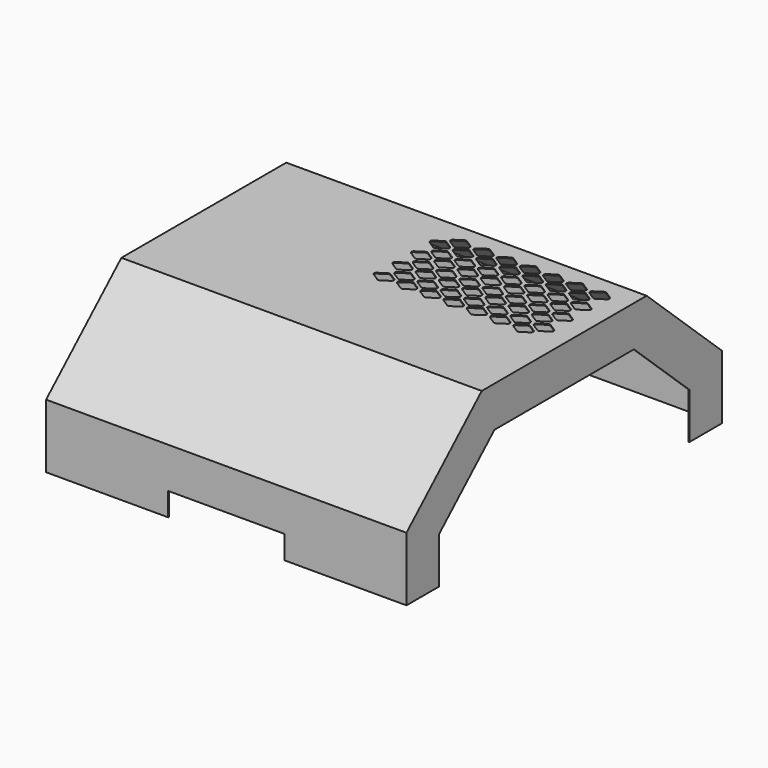
from build123d import *

# Parameters (mm, degrees)
F1_DEPTH = 196.85
F2_T     = -0.9525
F3_W     = 127
F3_H     = 25.4
F4_DEPTH = 25.4
F6_DEPTH = 25.4


with BuildPart() as f1:
    # F0 (on Right) → F1 (new body, symmetric)
    with BuildSketch(Plane.YZ):
        Polygon((112.592913, 164.460092), (0, 164.460092), (-112.592913, 164.460092), (-215.379199, 69.85), (-215.379199, 0), (-170.929199, 0), (-170.929199, 50.350838), (-95.25, 120.010092), (0, 120.010092), (95.25, 120.010092), (170.929199, 50.350838), (170.929199, 0), (215.379199, 0), (215.379199, 69.85), align=None)
    extrude(amount=F1_DEPTH, both=True)

    # F2
    f2_openings = [f1.faces().sort_by_distance(p)[0] for p in [
        (0, 0, 120.010092),
        (0, 133.089599, 85.180465),
        (0, 170.929199, 25.175419),
        (0, 193.154199, 0),
        (0, -133.089599, 85.180465),
        (0, -170.929199, 25.175419),
        (0, -193.154199, 0),
    ]]
    offset(amount=F2_T, openings=f2_openings)

    # F3 (on face) → F4 (cut)
    with BuildSketch(Plane.XZ.offset(215.379199)):
        with Locations((0, 12.7)):
            Rectangle(F3_W, F3_H)
    extrude(amount=-F4_DEPTH, mode=Mode.SUBTRACT)

    # F5 (on face) → F6 (cut)
    with BuildSketch(Plane.XY.offset(164.460092)):
        with BuildLine():
            Line((-1.38427, 7.355224), (-9.42362, 2.129647))
            ThreePointArc((-9.42362, 2.129647), (-10.57935, 0), (-9.42362, -2.129647))
            Line((-9.42362, -2.129647), (-1.38427, -7.355224))
            ThreePointArc((-1.38427, -7.355224), (0, -7.765577), (1.38427, -7.355224))
            Line((1.38427, -7.355224), (9.42362, -2.129647))
            ThreePointArc((9.42362, -2.129647), (10.57935, 0), (9.42362, 2.129647))
            Line((9.42362, 2.129647), (1.38427, 7.355224))
            ThreePointArc((1.38427, 7.355224), (0, 7.765577), (-1.38427, 7.355224))
        make_face()
        with BuildLine():
            ThreePointArc((3.27638, 14.171425), (2.12065, 12.041778), (3.27638, 9.912131))
            Line((3.27638, 9.912131), (11.31573, 4.686554))
            ThreePointArc((11.31573, 4.686554), (12.7, 4.276201), (14.08427, 4.686554))
            Line((14.08427, 4.686554), (22.12362, 9.912131))
            ThreePointArc((22.12362, 9.912131), (23.27935, 12.041778), (22.12362, 14.171425))
            Line((22.12362, 14.171425), (14.08427, 19.397002))
            ThreePointArc((14.08427, 19.397002), (12.7, 19.807356), (11.31573, 19.397002))
            Line((11.31573, 19.397002), (3.27638, 14.171425))
        make_face()
        with BuildLine():
            Line((-1.38427, 32.755224), (-9.42362, 27.529647))
            ThreePointArc((-9.42362, 27.529647), (-10.57935, 25.4), (-9.42362, 23.270353))
            Line((-9.42362, 23.270353), (-1.38427, 18.044776))
            ThreePointArc((-1.38427, 18.044776), (0, 17.634423), (1.38427, 18.044776))
            Line((1.38427, 18.044776), (9.42362, 23.270353))
            ThreePointArc((9.42362, 23.270353), (10.57935, 25.4), (9.42362, 27.529647))
            Line((9.42362, 27.529647), (1.38427, 32.755224))
            ThreePointArc((1.38427, 32.755224), (0, 33.165577), (-1.38427, 32.755224))
        make_face()
        with BuildLine():
            Line((22.12362, 39.571425), (14.08427, 44.797002))
            ThreePointArc((14.08427, 44.797002), (12.7, 45.207356), (11.31573, 44.797002))
            Line((11.31573, 44.797002), (3.27638, 39.571425))
            ThreePointArc((3.27638, 39.571425), (2.12065, 37.441778), (3.27638, 35.312131))
            Line((3.27638, 35.312131), (11.31573, 30.086554))
            ThreePointArc((11.31573, 30.086554), (12.7, 29.676201), (14.08427, 30.086554))
            Line((14.08427, 30.086554), (22.12362, 35.312131))
            ThreePointArc((22.12362, 35.312131), (23.27935, 37.441778), (22.12362, 39.571425))
        make_face()
        with BuildLine():
            Line((-1.38427, 58.155224), (-9.42362, 52.929647))
            ThreePointArc((-9.42362, 52.929647), (-10.57935, 50.8), (-9.42362, 48.670353))
            Line((-9.42362, 48.670353), (-1.38427, 43.444776))
            ThreePointArc((-1.38427, 43.444776), (0, 43.034423), (1.38427, 43.444776))
            Line((1.38427, 43.444776), (9.42362, 48.670353))
            ThreePointArc((9.42362, 48.670353), (10.57935, 50.8), (9.42362, 52.929647))
            Line((9.42362, 52.929647), (1.38427, 58.155224))
            ThreePointArc((1.38427, 58.155224), (0, 58.565577), (-1.38427, 58.155224))
        make_face()
        with BuildLine():
            Line((22.12362, 64.971425), (14.08427, 70.197002))
            ThreePointArc((14.08427, 70.197002), (12.7, 70.607356), (11.31573, 70.197002))
            Line((11.31573, 70.197002), (3.27638, 64.971425))
            ThreePointArc((3.27638, 64.971425), (2.12065, 62.841778), (3.27638, 60.712131))
            Line((3.27638, 60.712131), (11.31573, 55.486554))
            ThreePointArc((11.31573, 55.486554), (12.7, 55.076201), (14.08427, 55.486554))
            Line((14.08427, 55.486554), (22.12362, 60.712131))
            ThreePointArc((22.12362, 60.712131), (23.27935, 62.841778), (22.12362, 64.971425))
        make_face()
        with BuildLine():
            Line((-1.38427, 83.555224), (-9.42362, 78.329647))
            ThreePointArc((-9.42362, 78.329647), (-10.57935, 76.2), (-9.42362, 74.070353))
            Line((-9.42362, 74.070353), (-1.38427, 68.844776))
            ThreePointArc((-1.38427, 68.844776), (0, 68.434423), (1.38427, 68.844776))
            Line((1.38427, 68.844776), (9.42362, 74.070353))
            ThreePointArc((9.42362, 74.070353), (10.57935, 76.2), (9.42362, 78.329647))
            Line((9.42362, 78.329647), (1.38427, 83.555224))
            ThreePointArc((1.38427, 83.555224), (0, 83.965577), (-1.38427, 83.555224))
        make_face()
        with BuildLine():
            Line((22.12362, 90.371425), (14.08427, 95.597002))
            ThreePointArc((14.08427, 95.597002), (12.7, 96.007356), (11.31573, 95.597002))
            Line((11.31573, 95.597002), (3.27638, 90.371425))
            ThreePointArc((3.27638, 90.371425), (2.12065, 88.241778), (3.27638, 86.112131))
            Line((3.27638, 86.112131), (11.31573, 80.886554))
            ThreePointArc((11.31573, 80.886554), (12.7, 80.476201), (14.08427, 80.886554))
            Line((14.08427, 80.886554), (22.12362, 86.112131))
            ThreePointArc((22.12362, 86.112131), (23.27935, 88.241778), (22.12362, 90.371425))
        make_face()
        with BuildLine():
            Line((24.01573, 7.355224), (15.97638, 2.129647))
            ThreePointArc((15.97638, 2.129647), (14.82065, 0), (15.97638, -2.129647))
            Line((15.97638, -2.129647), (24.01573, -7.355224))
            ThreePointArc((24.01573, -7.355224), (25.4, -7.765577), (26.78427, -7.355224))
            Line((26.78427, -7.355224), (34.82362, -2.129647))
            ThreePointArc((34.82362, -2.129647), (35.97935, 0), (34.82362, 2.129647))
            Line((34.82362, 2.129647), (26.78427, 7.355224))
            ThreePointArc((26.78427, 7.355224), (25.4, 7.765577), (24.01573, 7.355224))
        make_face()
        with BuildLine():
            Line((47.52362, 14.171425), (39.48427, 19.397002))
            ThreePointArc((39.48427, 19.397002), (38.1, 19.807356), (36.71573, 19.397002))
            Line((36.71573, 19.397002), (28.67638, 14.171425))
            ThreePointArc((28.67638, 14.171425), (27.52065, 12.041778), (28.67638, 9.912131))
            Line((28.67638, 9.912131), (36.71573, 4.686554))
            ThreePointArc((36.71573, 4.686554), (38.1, 4.276201), (39.48427, 4.686554))
            Line((39.48427, 4.686554), (47.52362, 9.912131))
            ThreePointArc((47.52362, 9.912131), (48.67935, 12.041778), (47.52362, 14.171425))
        make_face()
        with BuildLine():
            Line((24.01573, 32.755224), (15.97638, 27.529647))
            ThreePointArc((15.97638, 27.529647), (14.82065, 25.4), (15.97638, 23.270353))
            Line((15.97638, 23.270353), (24.01573, 18.044776))
            ThreePointArc((24.01573, 18.044776), (25.4, 17.634423), (26.78427, 18.044776))
            Line((26.78427, 18.044776), (34.82362, 23.270353))
            ThreePointArc((34.82362, 23.270353), (35.97935, 25.4), (34.82362, 27.529647))
            Line((34.82362, 27.529647), (26.78427, 32.755224))
            ThreePointArc((26.78427, 32.755224), (25.4, 33.165577), (24.01573, 32.755224))
        make_face()
        with BuildLine():
            Line((47.52362, 39.571425), (39.48427, 44.797002))
            ThreePointArc((39.48427, 44.797002), (38.1, 45.207356), (36.71573, 44.797002))
            Line((36.71573, 44.797002), (28.67638, 39.571425))
            ThreePointArc((28.67638, 39.571425), (27.52065, 37.441778), (28.67638, 35.312131))
            Line((28.67638, 35.312131), (36.71573, 30.086554))
            ThreePointArc((36.71573, 30.086554), (38.1, 29.676201), (39.48427, 30.086554))
            Line((39.48427, 30.086554), (47.52362, 35.312131))
            ThreePointArc((47.52362, 35.312131), (48.67935, 37.441778), (47.52362, 39.571425))
        make_face()
        with BuildLine():
            Line((24.01573, 58.155224), (15.97638, 52.929647))
            ThreePointArc((15.97638, 52.929647), (14.82065, 50.8), (15.97638, 48.670353))
            Line((15.97638, 48.670353), (24.01573, 43.444776))
            ThreePointArc((24.01573, 43.444776), (25.4, 43.034423), (26.78427, 43.444776))
            Line((26.78427, 43.444776), (34.82362, 48.670353))
            ThreePointArc((34.82362, 48.670353), (35.97935, 50.8), (34.82362, 52.929647))
            Line((34.82362, 52.929647), (26.78427, 58.155224))
            ThreePointArc((26.78427, 58.155224), (25.4, 58.565577), (24.01573, 58.155224))
        make_face()
        with BuildLine():
            Line((47.52362, 64.971425), (39.48427, 70.197002))
            ThreePointArc((39.48427, 70.197002), (38.1, 70.607356), (36.71573, 70.197002))
            Line((36.71573, 70.197002), (28.67638, 64.971425))
            ThreePointArc((28.67638, 64.971425), (27.52065, 62.841778), (28.67638, 60.712131))
            Line((28.67638, 60.712131), (36.71573, 55.486554))
            ThreePointArc((36.71573, 55.486554), (38.1, 55.076201), (39.48427, 55.486554))
            Line((39.48427, 55.486554), (47.52362, 60.712131))
            ThreePointArc((47.52362, 60.712131), (48.67935, 62.841778), (47.52362, 64.971425))
        make_face()
        with BuildLine():
            Line((24.01573, 83.555224), (15.97638, 78.329647))
            ThreePointArc((15.97638, 78.329647), (14.82065, 76.2), (15.97638, 74.070353))
            Line((15.97638, 74.070353), (24.01573, 68.844776))
            ThreePointArc((24.01573, 68.844776), (25.4, 68.434423), (26.78427, 68.844776))
            Line((26.78427, 68.844776), (34.82362, 74.070353))
            ThreePointArc((34.82362, 74.070353), (35.97935, 76.2), (34.82362, 78.329647))
            Line((34.82362, 78.329647), (26.78427, 83.555224))
            ThreePointArc((26.78427, 83.555224), (25.4, 83.965577), (24.01573, 83.555224))
        make_face()
        with BuildLine():
            Line((47.52362, 90.371425), (39.48427, 95.597002))
            ThreePointArc((39.48427, 95.597002), (38.1, 96.007356), (36.71573, 95.597002))
            Line((36.71573, 95.597002), (28.67638, 90.371425))
            ThreePointArc((28.67638, 90.371425), (27.52065, 88.241778), (28.67638, 86.112131))
            Line((28.67638, 86.112131), (36.71573, 80.886554))
            ThreePointArc((36.71573, 80.886554), (38.1, 80.476201), (39.48427, 80.886554))
            Line((39.48427, 80.886554), (47.52362, 86.112131))
            ThreePointArc((47.52362, 86.112131), (48.67935, 88.241778), (47.52362, 90.371425))
        make_face()
        with BuildLine():
            Line((49.41573, 7.355224), (41.37638, 2.129647))
            ThreePointArc((41.37638, 2.129647), (40.22065, 0), (41.37638, -2.129647))
            Line((41.37638, -2.129647), (49.41573, -7.355224))
            ThreePointArc((49.41573, -7.355224), (50.8, -7.765577), (52.18427, -7.355224))
            Line((52.18427, -7.355224), (60.22362, -2.129647))
            ThreePointArc((60.22362, -2.129647), (61.37935, 0), (60.22362, 2.129647))
            Line((60.22362, 2.129647), (52.18427, 7.355224))
            ThreePointArc((52.18427, 7.355224), (50.8, 7.765577), (49.41573, 7.355224))
        make_face()
        with BuildLine():
            Line((72.92362, 14.171425), (64.88427, 19.397002))
            ThreePointArc((64.88427, 19.397002), (63.5, 19.807356), (62.11573, 19.397002))
            Line((62.11573, 19.397002), (54.07638, 14.171425))
            ThreePointArc((54.07638, 14.171425), (52.92065, 12.041778), (54.07638, 9.912131))
            Line((54.07638, 9.912131), (62.11573, 4.686554))
            ThreePointArc((62.11573, 4.686554), (63.5, 4.276201), (64.88427, 4.686554))
            Line((64.88427, 4.686554), (72.92362, 9.912131))
            ThreePointArc((72.92362, 9.912131), (74.07935, 12.041778), (72.92362, 14.171425))
        make_face()
        with BuildLine():
            Line((49.41573, 32.755224), (41.37638, 27.529647))
            ThreePointArc((41.37638, 27.529647), (40.22065, 25.4), (41.37638, 23.270353))
            Line((41.37638, 23.270353), (49.41573, 18.044776))
            ThreePointArc((49.41573, 18.044776), (50.8, 17.634423), (52.18427, 18.044776))
            Line((52.18427, 18.044776), (60.22362, 23.270353))
            ThreePointArc((60.22362, 23.270353), (61.37935, 25.4), (60.22362, 27.529647))
            Line((60.22362, 27.529647), (52.18427, 32.755224))
            ThreePointArc((52.18427, 32.755224), (50.8, 33.165577), (49.41573, 32.755224))
        make_face()
        with BuildLine():
            Line((72.92362, 39.571425), (64.88427, 44.797002))
            ThreePointArc((64.88427, 44.797002), (63.5, 45.207356), (62.11573, 44.797002))
            Line((62.11573, 44.797002), (54.07638, 39.571425))
            ThreePointArc((54.07638, 39.571425), (52.92065, 37.441778), (54.07638, 35.312131))
            Line((54.07638, 35.312131), (62.11573, 30.086554))
            ThreePointArc((62.11573, 30.086554), (63.5, 29.676201), (64.88427, 30.086554))
            Line((64.88427, 30.086554), (72.92362, 35.312131))
            ThreePointArc((72.92362, 35.312131), (74.07935, 37.441778), (72.92362, 39.571425))
        make_face()
        with BuildLine():
            Line((49.41573, 58.155224), (41.37638, 52.929647))
            ThreePointArc((41.37638, 52.929647), (40.22065, 50.8), (41.37638, 48.670353))
            Line((41.37638, 48.670353), (49.41573, 43.444776))
            ThreePointArc((49.41573, 43.444776), (50.8, 43.034423), (52.18427, 43.444776))
            Line((52.18427, 43.444776), (60.22362, 48.670353))
            ThreePointArc((60.22362, 48.670353), (61.37935, 50.8), (60.22362, 52.929647))
            Line((60.22362, 52.929647), (52.18427, 58.155224))
            ThreePointArc((52.18427, 58.155224), (50.8, 58.565577), (49.41573, 58.155224))
        make_face()
        with BuildLine():
            Line((72.92362, 64.971425), (64.88427, 70.197002))
            ThreePointArc((64.88427, 70.197002), (63.5, 70.607356), (62.11573, 70.197002))
            Line((62.11573, 70.197002), (54.07638, 64.971425))
            ThreePointArc((54.07638, 64.971425), (52.92065, 62.841778), (54.07638, 60.712131))
            Line((54.07638, 60.712131), (62.11573, 55.486554))
            ThreePointArc((62.11573, 55.486554), (63.5, 55.076201), (64.88427, 55.486554))
            Line((64.88427, 55.486554), (72.92362, 60.712131))
            ThreePointArc((72.92362, 60.712131), (74.07935, 62.841778), (72.92362, 64.971425))
        make_face()
        with BuildLine():
            Line((49.41573, 83.555224), (41.37638, 78.329647))
            ThreePointArc((41.37638, 78.329647), (40.22065, 76.2), (41.37638, 74.070353))
            Line((41.37638, 74.070353), (49.41573, 68.844776))
            ThreePointArc((49.41573, 68.844776), (50.8, 68.434423), (52.18427, 68.844776))
            Line((52.18427, 68.844776), (60.22362, 74.070353))
            ThreePointArc((60.22362, 74.070353), (61.37935, 76.2), (60.22362, 78.329647))
            Line((60.22362, 78.329647), (52.18427, 83.555224))
            ThreePointArc((52.18427, 83.555224), (50.8, 83.965577), (49.41573, 83.555224))
        make_face()
        with BuildLine():
            Line((72.92362, 90.371425), (64.88427, 95.597002))
            ThreePointArc((64.88427, 95.597002), (63.5, 96.007356), (62.11573, 95.597002))
            Line((62.11573, 95.597002), (54.07638, 90.371425))
            ThreePointArc((54.07638, 90.371425), (52.92065, 88.241778), (54.07638, 86.112131))
            Line((54.07638, 86.112131), (62.11573, 80.886554))
            ThreePointArc((62.11573, 80.886554), (63.5, 80.476201), (64.88427, 80.886554))
            Line((64.88427, 80.886554), (72.92362, 86.112131))
            ThreePointArc((72.92362, 86.112131), (74.07935, 88.241778), (72.92362, 90.371425))
        make_face()
        with BuildLine():
            Line((74.81573, 7.355224), (66.77638, 2.129647))
            ThreePointArc((66.77638, 2.129647), (65.62065, 0), (66.77638, -2.129647))
            Line((66.77638, -2.129647), (74.81573, -7.355224))
            ThreePointArc((74.81573, -7.355224), (76.2, -7.765577), (77.58427, -7.355224))
            Line((77.58427, -7.355224), (85.62362, -2.129647))
            ThreePointArc((85.62362, -2.129647), (86.77935, 0), (85.62362, 2.129647))
            Line((85.62362, 2.129647), (77.58427, 7.355224))
            ThreePointArc((77.58427, 7.355224), (76.2, 7.765577), (74.81573, 7.355224))
        make_face()
        with BuildLine():
            Line((98.32362, 14.171425), (90.28427, 19.397002))
            ThreePointArc((90.28427, 19.397002), (88.9, 19.807356), (87.51573, 19.397002))
            Line((87.51573, 19.397002), (79.47638, 14.171425))
            ThreePointArc((79.47638, 14.171425), (78.32065, 12.041778), (79.47638, 9.912131))
            Line((79.47638, 9.912131), (87.51573, 4.686554))
            ThreePointArc((87.51573, 4.686554), (88.9, 4.276201), (90.28427, 4.686554))
            Line((90.28427, 4.686554), (98.32362, 9.912131))
            ThreePointArc((98.32362, 9.912131), (99.47935, 12.041778), (98.32362, 14.171425))
        make_face()
        with BuildLine():
            Line((74.81573, 32.755224), (66.77638, 27.529647))
            ThreePointArc((66.77638, 27.529647), (65.62065, 25.4), (66.77638, 23.270353))
            Line((66.77638, 23.270353), (74.81573, 18.044776))
            ThreePointArc((74.81573, 18.044776), (76.2, 17.634423), (77.58427, 18.044776))
            Line((77.58427, 18.044776), (85.62362, 23.270353))
            ThreePointArc((85.62362, 23.270353), (86.77935, 25.4), (85.62362, 27.529647))
            Line((85.62362, 27.529647), (77.58427, 32.755224))
            ThreePointArc((77.58427, 32.755224), (76.2, 33.165577), (74.81573, 32.755224))
        make_face()
        with BuildLine():
            Line((98.32362, 39.571425), (90.28427, 44.797002))
            ThreePointArc((90.28427, 44.797002), (88.9, 45.207356), (87.51573, 44.797002))
            Line((87.51573, 44.797002), (79.47638, 39.571425))
            ThreePointArc((79.47638, 39.571425), (78.32065, 37.441778), (79.47638, 35.312131))
            Line((79.47638, 35.312131), (87.51573, 30.086554))
            ThreePointArc((87.51573, 30.086554), (88.9, 29.676201), (90.28427, 30.086554))
            Line((90.28427, 30.086554), (98.32362, 35.312131))
            ThreePointArc((98.32362, 35.312131), (99.47935, 37.441778), (98.32362, 39.571425))
        make_face()
        with BuildLine():
            Line((74.81573, 58.155224), (66.77638, 52.929647))
            ThreePointArc((66.77638, 52.929647), (65.62065, 50.8), (66.77638, 48.670353))
            Line((66.77638, 48.670353), (74.81573, 43.444776))
            ThreePointArc((74.81573, 43.444776), (76.2, 43.034423), (77.58427, 43.444776))
            Line((77.58427, 43.444776), (85.62362, 48.670353))
            ThreePointArc((85.62362, 48.670353), (86.77935, 50.8), (85.62362, 52.929647))
            Line((85.62362, 52.929647), (77.58427, 58.155224))
            ThreePointArc((77.58427, 58.155224), (76.2, 58.565577), (74.81573, 58.155224))
        make_face()
        with BuildLine():
            Line((98.32362, 64.971425), (90.28427, 70.197002))
            ThreePointArc((90.28427, 70.197002), (88.9, 70.607356), (87.51573, 70.197002))
            Line((87.51573, 70.197002), (79.47638, 64.971425))
            ThreePointArc((79.47638, 64.971425), (78.32065, 62.841778), (79.47638, 60.712131))
            Line((79.47638, 60.712131), (87.51573, 55.486554))
            ThreePointArc((87.51573, 55.486554), (88.9, 55.076201), (90.28427, 55.486554))
            Line((90.28427, 55.486554), (98.32362, 60.712131))
            ThreePointArc((98.32362, 60.712131), (99.47935, 62.841778), (98.32362, 64.971425))
        make_face()
        with BuildLine():
            Line((74.81573, 83.555224), (66.77638, 78.329647))
            ThreePointArc((66.77638, 78.329647), (65.62065, 76.2), (66.77638, 74.070353))
            Line((66.77638, 74.070353), (74.81573, 68.844776))
            ThreePointArc((74.81573, 68.844776), (76.2, 68.434423), (77.58427, 68.844776))
            Line((77.58427, 68.844776), (85.62362, 74.070353))
            ThreePointArc((85.62362, 74.070353), (86.77935, 76.2), (85.62362, 78.329647))
            Line((85.62362, 78.329647), (77.58427, 83.555224))
            ThreePointArc((77.58427, 83.555224), (76.2, 83.965577), (74.81573, 83.555224))
        make_face()
        with BuildLine():
            Line((98.32362, 90.371425), (90.28427, 95.597002))
            ThreePointArc((90.28427, 95.597002), (88.9, 96.007356), (87.51573, 95.597002))
            Line((87.51573, 95.597002), (79.47638, 90.371425))
            ThreePointArc((79.47638, 90.371425), (78.32065, 88.241778), (79.47638, 86.112131))
            Line((79.47638, 86.112131), (87.51573, 80.886554))
            ThreePointArc((87.51573, 80.886554), (88.9, 80.476201), (90.28427, 80.886554))
            Line((90.28427, 80.886554), (98.32362, 86.112131))
            ThreePointArc((98.32362, 86.112131), (99.47935, 88.241778), (98.32362, 90.371425))
        make_face()
        with BuildLine():
            Line((100.21573, 7.355224), (92.17638, 2.129647))
            ThreePointArc((92.17638, 2.129647), (91.02065, 0), (92.17638, -2.129647))
            Line((92.17638, -2.129647), (100.21573, -7.355224))
            ThreePointArc((100.21573, -7.355224), (101.6, -7.765577), (102.98427, -7.355224))
            Line((102.98427, -7.355224), (111.02362, -2.129647))
            ThreePointArc((111.02362, -2.129647), (112.17935, 0), (111.02362, 2.129647))
            Line((111.02362, 2.129647), (102.98427, 7.355224))
            ThreePointArc((102.98427, 7.355224), (101.6, 7.765577), (100.21573, 7.355224))
        make_face()
        with BuildLine():
            Line((123.72362, 14.171425), (115.68427, 19.397002))
            ThreePointArc((115.68427, 19.397002), (114.3, 19.807356), (112.91573, 19.397002))
            Line((112.91573, 19.397002), (104.87638, 14.171425))
            ThreePointArc((104.87638, 14.171425), (103.72065, 12.041778), (104.87638, 9.912131))
            Line((104.87638, 9.912131), (112.91573, 4.686554))
            ThreePointArc((112.91573, 4.686554), (114.3, 4.276201), (115.68427, 4.686554))
            Line((115.68427, 4.686554), (123.72362, 9.912131))
            ThreePointArc((123.72362, 9.912131), (124.87935, 12.041778), (123.72362, 14.171425))
        make_face()
        with BuildLine():
            Line((100.21573, 32.755224), (92.17638, 27.529647))
            ThreePointArc((92.17638, 27.529647), (91.02065, 25.4), (92.17638, 23.270353))
            Line((92.17638, 23.270353), (100.21573, 18.044776))
            ThreePointArc((100.21573, 18.044776), (101.6, 17.634423), (102.98427, 18.044776))
            Line((102.98427, 18.044776), (111.02362, 23.270353))
            ThreePointArc((111.02362, 23.270353), (112.17935, 25.4), (111.02362, 27.529647))
            Line((111.02362, 27.529647), (102.98427, 32.755224))
            ThreePointArc((102.98427, 32.755224), (101.6, 33.165577), (100.21573, 32.755224))
        make_face()
        with BuildLine():
            Line((123.72362, 39.571425), (115.68427, 44.797002))
            ThreePointArc((115.68427, 44.797002), (114.3, 45.207356), (112.91573, 44.797002))
            Line((112.91573, 44.797002), (104.87638, 39.571425))
            ThreePointArc((104.87638, 39.571425), (103.72065, 37.441778), (104.87638, 35.312131))
            Line((104.87638, 35.312131), (112.91573, 30.086554))
            ThreePointArc((112.91573, 30.086554), (114.3, 29.676201), (115.68427, 30.086554))
            Line((115.68427, 30.086554), (123.72362, 35.312131))
            ThreePointArc((123.72362, 35.312131), (124.87935, 37.441778), (123.72362, 39.571425))
        make_face()
        with BuildLine():
            Line((100.21573, 58.155224), (92.17638, 52.929647))
            ThreePointArc((92.17638, 52.929647), (91.02065, 50.8), (92.17638, 48.670353))
            Line((92.17638, 48.670353), (100.21573, 43.444776))
            ThreePointArc((100.21573, 43.444776), (101.6, 43.034423), (102.98427, 43.444776))
            Line((102.98427, 43.444776), (111.02362, 48.670353))
            ThreePointArc((111.02362, 48.670353), (112.17935, 50.8), (111.02362, 52.929647))
            Line((111.02362, 52.929647), (102.98427, 58.155224))
            ThreePointArc((102.98427, 58.155224), (101.6, 58.565577), (100.21573, 58.155224))
        make_face()
        with BuildLine():
            Line((123.72362, 64.971425), (115.68427, 70.197002))
            ThreePointArc((115.68427, 70.197002), (114.3, 70.607356), (112.91573, 70.197002))
            Line((112.91573, 70.197002), (104.87638, 64.971425))
            ThreePointArc((104.87638, 64.971425), (103.72065, 62.841778), (104.87638, 60.712131))
            Line((104.87638, 60.712131), (112.91573, 55.486554))
            ThreePointArc((112.91573, 55.486554), (114.3, 55.076201), (115.68427, 55.486554))
            Line((115.68427, 55.486554), (123.72362, 60.712131))
            ThreePointArc((123.72362, 60.712131), (124.87935, 62.841778), (123.72362, 64.971425))
        make_face()
        with BuildLine():
            Line((100.21573, 83.555224), (92.17638, 78.329647))
            ThreePointArc((92.17638, 78.329647), (91.02065, 76.2), (92.17638, 74.070353))
            Line((92.17638, 74.070353), (100.21573, 68.844776))
            ThreePointArc((100.21573, 68.844776), (101.6, 68.434423), (102.98427, 68.844776))
            Line((102.98427, 68.844776), (111.02362, 74.070353))
            ThreePointArc((111.02362, 74.070353), (112.17935, 76.2), (111.02362, 78.329647))
            Line((111.02362, 78.329647), (102.98427, 83.555224))
            ThreePointArc((102.98427, 83.555224), (101.6, 83.965577), (100.21573, 83.555224))
        make_face()
        with BuildLine():
            Line((123.72362, 90.371425), (115.68427, 95.597002))
            ThreePointArc((115.68427, 95.597002), (114.3, 96.007356), (112.91573, 95.597002))
            Line((112.91573, 95.597002), (104.87638, 90.371425))
            ThreePointArc((104.87638, 90.371425), (103.72065, 88.241778), (104.87638, 86.112131))
            Line((104.87638, 86.112131), (112.91573, 80.886554))
            ThreePointArc((112.91573, 80.886554), (114.3, 80.476201), (115.68427, 80.886554))
            Line((115.68427, 80.886554), (123.72362, 86.112131))
            ThreePointArc((123.72362, 86.112131), (124.87935, 88.241778), (123.72362, 90.371425))
        make_face()
        with BuildLine():
            Line((125.61573, 7.355224), (117.57638, 2.129647))
            ThreePointArc((117.57638, 2.129647), (116.42065, 0), (117.57638, -2.129647))
            Line((117.57638, -2.129647), (125.61573, -7.355224))
            ThreePointArc((125.61573, -7.355224), (127, -7.765577), (128.38427, -7.355224))
            Line((128.38427, -7.355224), (136.42362, -2.129647))
            ThreePointArc((136.42362, -2.129647), (137.57935, 0), (136.42362, 2.129647))
            Line((136.42362, 2.129647), (128.38427, 7.355224))
            ThreePointArc((128.38427, 7.355224), (127, 7.765577), (125.61573, 7.355224))
        make_face()
        with BuildLine():
            Line((149.12362, 14.171425), (141.08427, 19.397002))
            ThreePointArc((141.08427, 19.397002), (139.7, 19.807356), (138.31573, 19.397002))
            Line((138.31573, 19.397002), (130.27638, 14.171425))
            ThreePointArc((130.27638, 14.171425), (129.12065, 12.041778), (130.27638, 9.912131))
            Line((130.27638, 9.912131), (138.31573, 4.686554))
            ThreePointArc((138.31573, 4.686554), (139.7, 4.276201), (141.08427, 4.686554))
            Line((141.08427, 4.686554), (149.12362, 9.912131))
            ThreePointArc((149.12362, 9.912131), (150.27935, 12.041778), (149.12362, 14.171425))
        make_face()
        with BuildLine():
            Line((125.61573, 32.755224), (117.57638, 27.529647))
            ThreePointArc((117.57638, 27.529647), (116.42065, 25.4), (117.57638, 23.270353))
            Line((117.57638, 23.270353), (125.61573, 18.044776))
            ThreePointArc((125.61573, 18.044776), (127, 17.634423), (128.38427, 18.044776))
            Line((128.38427, 18.044776), (136.42362, 23.270353))
            ThreePointArc((136.42362, 23.270353), (137.57935, 25.4), (136.42362, 27.529647))
            Line((136.42362, 27.529647), (128.38427, 32.755224))
            ThreePointArc((128.38427, 32.755224), (127, 33.165577), (125.61573, 32.755224))
        make_face()
        with BuildLine():
            Line((149.12362, 39.571425), (141.08427, 44.797002))
            ThreePointArc((141.08427, 44.797002), (139.7, 45.207356), (138.31573, 44.797002))
            Line((138.31573, 44.797002), (130.27638, 39.571425))
            ThreePointArc((130.27638, 39.571425), (129.12065, 37.441778), (130.27638, 35.312131))
            Line((130.27638, 35.312131), (138.31573, 30.086554))
            ThreePointArc((138.31573, 30.086554), (139.7, 29.676201), (141.08427, 30.086554))
            Line((141.08427, 30.086554), (149.12362, 35.312131))
            ThreePointArc((149.12362, 35.312131), (150.27935, 37.441778), (149.12362, 39.571425))
        make_face()
        with BuildLine():
            Line((125.61573, 58.155224), (117.57638, 52.929647))
            ThreePointArc((117.57638, 52.929647), (116.42065, 50.8), (117.57638, 48.670353))
            Line((117.57638, 48.670353), (125.61573, 43.444776))
            ThreePointArc((125.61573, 43.444776), (127, 43.034423), (128.38427, 43.444776))
            Line((128.38427, 43.444776), (136.42362, 48.670353))
            ThreePointArc((136.42362, 48.670353), (137.57935, 50.8), (136.42362, 52.929647))
            Line((136.42362, 52.929647), (128.38427, 58.155224))
            ThreePointArc((128.38427, 58.155224), (127, 58.565577), (125.61573, 58.155224))
        make_face()
        with BuildLine():
            Line((149.12362, 64.971425), (141.08427, 70.197002))
            ThreePointArc((141.08427, 70.197002), (139.7, 70.607356), (138.31573, 70.197002))
            Line((138.31573, 70.197002), (130.27638, 64.971425))
            ThreePointArc((130.27638, 64.971425), (129.12065, 62.841778), (130.27638, 60.712131))
            Line((130.27638, 60.712131), (138.31573, 55.486554))
            ThreePointArc((138.31573, 55.486554), (139.7, 55.076201), (141.08427, 55.486554))
            Line((141.08427, 55.486554), (149.12362, 60.712131))
            ThreePointArc((149.12362, 60.712131), (150.27935, 62.841778), (149.12362, 64.971425))
        make_face()
        with BuildLine():
            Line((125.61573, 83.555224), (117.57638, 78.329647))
            ThreePointArc((117.57638, 78.329647), (116.42065, 76.2), (117.57638, 74.070353))
            Line((117.57638, 74.070353), (125.61573, 68.844776))
            ThreePointArc((125.61573, 68.844776), (127, 68.434423), (128.38427, 68.844776))
            Line((128.38427, 68.844776), (136.42362, 74.070353))
            ThreePointArc((136.42362, 74.070353), (137.57935, 76.2), (136.42362, 78.329647))
            Line((136.42362, 78.329647), (128.38427, 83.555224))
            ThreePointArc((128.38427, 83.555224), (127, 83.965577), (125.61573, 83.555224))
        make_face()
        with BuildLine():
            Line((149.12362, 90.371425), (141.08427, 95.597002))
            ThreePointArc((141.08427, 95.597002), (139.7, 96.007356), (138.31573, 95.597002))
            Line((138.31573, 95.597002), (130.27638, 90.371425))
            ThreePointArc((130.27638, 90.371425), (129.12065, 88.241778), (130.27638, 86.112131))
            Line((130.27638, 86.112131), (138.31573, 80.886554))
            ThreePointArc((138.31573, 80.886554), (139.7, 80.476201), (141.08427, 80.886554))
            Line((141.08427, 80.886554), (149.12362, 86.112131))
            ThreePointArc((149.12362, 86.112131), (150.27935, 88.241778), (149.12362, 90.371425))
        make_face()
        with BuildLine():
            Line((151.01573, 7.355224), (142.97638, 2.129647))
            ThreePointArc((142.97638, 2.129647), (141.82065, 0), (142.97638, -2.129647))
            Line((142.97638, -2.129647), (151.01573, -7.355224))
            ThreePointArc((151.01573, -7.355224), (152.4, -7.765577), (153.78427, -7.355224))
            Line((153.78427, -7.355224), (161.82362, -2.129647))
            ThreePointArc((161.82362, -2.129647), (162.97935, 0), (161.82362, 2.129647))
            Line((161.82362, 2.129647), (153.78427, 7.355224))
            ThreePointArc((153.78427, 7.355224), (152.4, 7.765577), (151.01573, 7.355224))
        make_face()
        with BuildLine():
            Line((174.52362, 14.171425), (166.48427, 19.397002))
            ThreePointArc((166.48427, 19.397002), (165.1, 19.807356), (163.71573, 19.397002))
            Line((163.71573, 19.397002), (155.67638, 14.171425))
            ThreePointArc((155.67638, 14.171425), (154.52065, 12.041778), (155.67638, 9.912131))
            Line((155.67638, 9.912131), (163.71573, 4.686554))
            ThreePointArc((163.71573, 4.686554), (165.1, 4.276201), (166.48427, 4.686554))
            Line((166.48427, 4.686554), (174.52362, 9.912131))
            ThreePointArc((174.52362, 9.912131), (175.67935, 12.041778), (174.52362, 14.171425))
        make_face()
        with BuildLine():
            Line((151.01573, 32.755224), (142.97638, 27.529647))
            ThreePointArc((142.97638, 27.529647), (141.82065, 25.4), (142.97638, 23.270353))
            Line((142.97638, 23.270353), (151.01573, 18.044776))
            ThreePointArc((151.01573, 18.044776), (152.4, 17.634423), (153.78427, 18.044776))
            Line((153.78427, 18.044776), (161.82362, 23.270353))
            ThreePointArc((161.82362, 23.270353), (162.97935, 25.4), (161.82362, 27.529647))
            Line((161.82362, 27.529647), (153.78427, 32.755224))
            ThreePointArc((153.78427, 32.755224), (152.4, 33.165577), (151.01573, 32.755224))
        make_face()
        with BuildLine():
            Line((174.52362, 39.571425), (166.48427, 44.797002))
            ThreePointArc((166.48427, 44.797002), (165.1, 45.207356), (163.71573, 44.797002))
            Line((163.71573, 44.797002), (155.67638, 39.571425))
            ThreePointArc((155.67638, 39.571425), (154.52065, 37.441778), (155.67638, 35.312131))
            Line((155.67638, 35.312131), (163.71573, 30.086554))
            ThreePointArc((163.71573, 30.086554), (165.1, 29.676201), (166.48427, 30.086554))
            Line((166.48427, 30.086554), (174.52362, 35.312131))
            ThreePointArc((174.52362, 35.312131), (175.67935, 37.441778), (174.52362, 39.571425))
        make_face()
        with BuildLine():
            Line((151.01573, 58.155224), (142.97638, 52.929647))
            ThreePointArc((142.97638, 52.929647), (141.82065, 50.8), (142.97638, 48.670353))
            Line((142.97638, 48.670353), (151.01573, 43.444776))
            ThreePointArc((151.01573, 43.444776), (152.4, 43.034423), (153.78427, 43.444776))
            Line((153.78427, 43.444776), (161.82362, 48.670353))
            ThreePointArc((161.82362, 48.670353), (162.97935, 50.8), (161.82362, 52.929647))
            Line((161.82362, 52.929647), (153.78427, 58.155224))
            ThreePointArc((153.78427, 58.155224), (152.4, 58.565577), (151.01573, 58.155224))
        make_face()
        with BuildLine():
            Line((174.52362, 64.971425), (166.48427, 70.197002))
            ThreePointArc((166.48427, 70.197002), (165.1, 70.607356), (163.71573, 70.197002))
            Line((163.71573, 70.197002), (155.67638, 64.971425))
            ThreePointArc((155.67638, 64.971425), (154.52065, 62.841778), (155.67638, 60.712131))
            Line((155.67638, 60.712131), (163.71573, 55.486554))
            ThreePointArc((163.71573, 55.486554), (165.1, 55.076201), (166.48427, 55.486554))
            Line((166.48427, 55.486554), (174.52362, 60.712131))
            ThreePointArc((174.52362, 60.712131), (175.67935, 62.841778), (174.52362, 64.971425))
        make_face()
        with BuildLine():
            Line((151.01573, 83.555224), (142.97638, 78.329647))
            ThreePointArc((142.97638, 78.329647), (141.82065, 76.2), (142.97638, 74.070353))
            Line((142.97638, 74.070353), (151.01573, 68.844776))
            ThreePointArc((151.01573, 68.844776), (152.4, 68.434423), (153.78427, 68.844776))
            Line((153.78427, 68.844776), (161.82362, 74.070353))
            ThreePointArc((161.82362, 74.070353), (162.97935, 76.2), (161.82362, 78.329647))
            Line((161.82362, 78.329647), (153.78427, 83.555224))
            ThreePointArc((153.78427, 83.555224), (152.4, 83.965577), (151.01573, 83.555224))
        make_face()
        with BuildLine():
            Line((174.52362, 90.371425), (166.48427, 95.597002))
            ThreePointArc((166.48427, 95.597002), (165.1, 96.007356), (163.71573, 95.597002))
            Line((163.71573, 95.597002), (155.67638, 90.371425))
            ThreePointArc((155.67638, 90.371425), (154.52065, 88.241778), (155.67638, 86.112131))
            Line((155.67638, 86.112131), (163.71573, 80.886554))
            ThreePointArc((163.71573, 80.886554), (165.1, 80.476201), (166.48427, 80.886554))
            Line((166.48427, 80.886554), (174.52362, 86.112131))
            ThreePointArc((174.52362, 86.112131), (175.67935, 88.241778), (174.52362, 90.371425))
        make_face()
    extrude(amount=-F6_DEPTH, mode=Mode.SUBTRACT)


solid = f1.part
